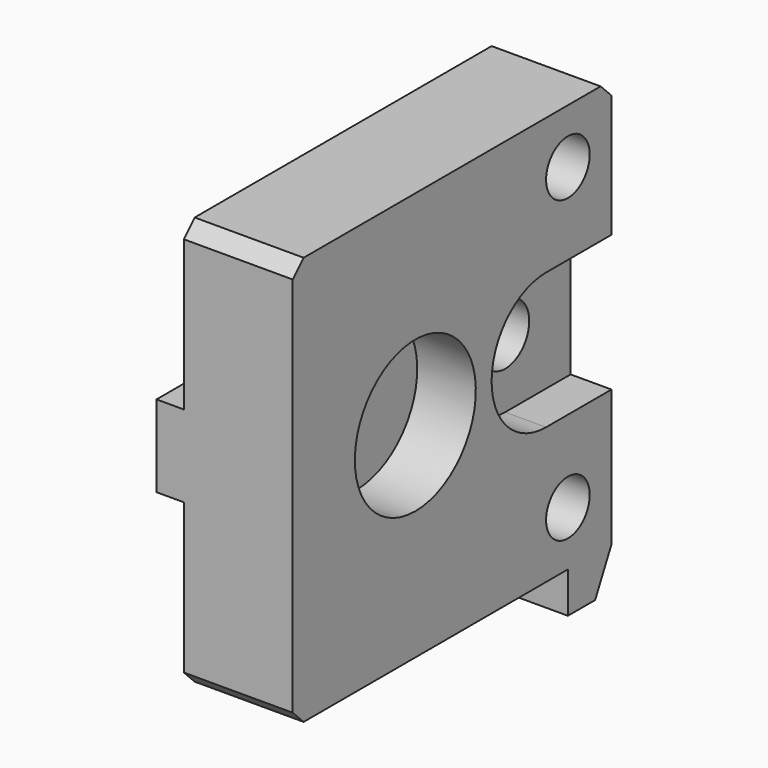
from build123d import *

# Parameters (mm, degrees)
BOX033_W               = 40.5
BOX033_H               = 42.5
BOX033_DEPTH           = 42.5
CYLINDER006_R          = 3.25
CYLINDER006_DEPTH      = 12
CYLINDER005_R          = 5.55
CYLINDER005_DEPTH      = 4.3
CYLINDER008_R          = 2
CYLINDER008_DEPTH      = 16
BOX005_W               = 8
BOX005_H               = 4
BOX005_DEPTH           = 3
CYLINDER014_R          = 2
CYLINDER014_DEPTH      = 9
CYLINDER011043_R       = 2
CYLINDER011043_DEPTH   = 9
CYLINDER002_R          = 2.2
CYLINDER002_DEPTH      = 25
CYLINDER_R             = 5
CYLINDER_DEPTH         = 7
BOX006_W               = 10
BOX006_H               = 10
BOX006_DEPTH           = 10
BOX004_W               = 8
BOX004_H               = 29.5
BOX004_DEPTH           = 30
BOX007_W               = 3
BOX007_H               = 18
BOX007_DEPTH           = 6
CHAMFER024034003_SIZE2 = 1.5
CHAMFER024034003_SIZE  = 2.99
CHAMFER024034004_SIZE  = 1


with BuildPart() as cube032:
    # Box033 → Box033 (new body)
    with BuildSketch(Plane(origin=(-48, -21.25, -0.25), x_dir=(1, 0, 0), z_dir=(0, 0, 1))):
        with Locations((20.25, 21.25)):
            Rectangle(BOX033_W, BOX033_H)
    extrude(amount=BOX033_DEPTH)


with BuildPart() as cylinder006:
    # Cylinder006 → Cylinder006 (new body)
    with BuildSketch(Plane(origin=(-31, 31, 15), x_dir=(0, 0, -1), z_dir=(1, 0, 0))):
        Circle(CYLINDER006_R)
    extrude(amount=CYLINDER006_DEPTH)


with BuildPart() as fusion006002011004053005:
    # Cylinder005 → Cylinder005 (new body)
    with BuildSketch(Plane(origin=(-36.3, 31, 15), x_dir=(0, 0, -1), z_dir=(1, 0, 0))):
        Circle(CYLINDER005_R)
    extrude(amount=CYLINDER005_DEPTH)

    # Fusion006002011004053005: union Cylinder006
    add(cylinder006.part)


with BuildPart() as fusion006002011004053005_1:
    # Fusion006002011004053005 placement: moved
    add(fusion006002011004053005.part.moved(Location((0, 1.5, 0))))


with BuildPart() as cylinder008:
    # Cylinder008 → Cylinder008 (new body)
    with BuildSketch(Plane(origin=(-36, 26, -8), x_dir=(1, 0, 0), z_dir=(0, 0, 1))):
        Circle(CYLINDER008_R)
    extrude(amount=CYLINDER008_DEPTH)


with BuildPart() as cube:
    # Box005 → Box005 (new body)
    with BuildSketch(Plane(origin=(-40, 46.5, -3), x_dir=(1, 0, 0), z_dir=(0, 0, 1))):
        with Locations((4, 2)):
            Rectangle(BOX005_W, BOX005_H)
    extrude(amount=BOX005_DEPTH)


with BuildPart() as cylinder014:
    # Cylinder014 → Cylinder014 (new body)
    with BuildSketch(Plane(origin=(-31, 45, 4), x_dir=(0, -1, 0), z_dir=(1, 0, 0))):
        Circle(CYLINDER014_R)
    extrude(amount=CYLINDER014_DEPTH)


with BuildPart() as fusion006002011004053002:
    # Cylinder011043 → Cylinder011043 (new body)
    with BuildSketch(Plane(origin=(-31, 45, 26), x_dir=(0, -1, 0), z_dir=(1, 0, 0))):
        Circle(CYLINDER011043_R)
    extrude(amount=CYLINDER011043_DEPTH)

    # Fusion006002011004053002: union Cylinder014
    add(cylinder014.part)


with BuildPart() as fusion006002011004053002_1:
    # Fusion006002011004053002 placement: moved
    add(fusion006002011004053002.part.moved(Location((-9, 1.5, 0))))


with BuildPart() as cylinder002:
    # Cylinder002 → Cylinder002 (new body)
    with BuildSketch(Plane(origin=(-40, 43, 15), x_dir=(0, 0, -1), z_dir=(1, 0, 0))):
        Circle(CYLINDER002_R)
    extrude(amount=CYLINDER002_DEPTH)


with BuildPart() as cylinder:
    # Cylinder → Cylinder (new body)
    with BuildSketch(Plane(origin=(-35, 43, 15), x_dir=(0, 0, -1), z_dir=(1, 0, 0))):
        Circle(CYLINDER_R)
    extrude(amount=CYLINDER_DEPTH)


with BuildPart() as fusion006002011004053003:
    # Box006 → Box006 (new body)
    with BuildSketch(Plane(origin=(-35, 43, 10), x_dir=(1, 0, 0), z_dir=(0, 0, 1))):
        with Locations((5, 5)):
            Rectangle(BOX006_W, BOX006_H)
    extrude(amount=BOX006_DEPTH)

    # Fusion006002011004053003: union Cylinder002, Cylinder
    add(cylinder002.part)
    add(cylinder.part)


with BuildPart() as fusion006002011004053003_1:
    # Fusion006002011004053003 placement: moved
    add(fusion006002011004053003.part.moved(Location((0, 1.5, 0))))


with BuildPart() as cut001063008008:
    # Box004 → Box004 (new body)
    with BuildSketch(Plane(origin=(-40, 21, 0), x_dir=(1, 0, 0), z_dir=(0, 0, 1))):
        with Locations((4, 14.75)):
            Rectangle(BOX004_W, BOX004_H)
    extrude(amount=BOX004_DEPTH)

    # Cut: cut Fusion006002011004053003
    add(fusion006002011004053003_1.part, mode=Mode.SUBTRACT)

    # Cut001063008002: cut Fusion006002011004053002
    add(fusion006002011004053002_1.part, mode=Mode.SUBTRACT)

    # Fusion006002011004053004: union Cube
    add(cube.part)

    # Cut001063008003: cut Cylinder008
    add(cylinder008.part, mode=Mode.SUBTRACT)

    # Cut001063008008: cut Fusion006002011004053005
    add(fusion006002011004053005_1.part, mode=Mode.SUBTRACT)


with BuildPart() as back_plate_basic:
    # Box007 → Box007 (new body)
    with BuildSketch(Plane(origin=(-42, 21, 12), x_dir=(1, 0, 0), z_dir=(0, 0, 1))):
        with Locations((1.5, 9)):
            Rectangle(BOX007_W, BOX007_H)
    extrude(amount=BOX007_DEPTH)

    # Fusion006002011004053014: union Cut001063008008
    add(cut001063008008.part)

    # Cut001063008009005: cut Cube032
    add(cube032.part, mode=Mode.SUBTRACT)

    # Chamfer024034003
    chamfer024034003_edges = [back_plate_basic.edges().sort_by_distance(p)[0] for p in [
        (-36, 50.5, -3),
    ]]
    chamfer024034003_side = back_plate_basic.faces().sort_by_distance((-36, 50.5, -1.5))[0]
    chamfer(chamfer024034003_edges, length=CHAMFER024034003_SIZE, length2=CHAMFER024034003_SIZE2, reference=chamfer024034003_side)

    # Chamfer024034004
    chamfer024034004_edges = [back_plate_basic.edges().sort_by_distance(p)[0] for p in [
        (-36, 50.5, 30),
        (-36, 21.25, 0),
        (-36, 21.25, 30),
    ]]
    chamfer(chamfer024034004_edges, length=CHAMFER024034004_SIZE)


solid = back_plate_basic.part
